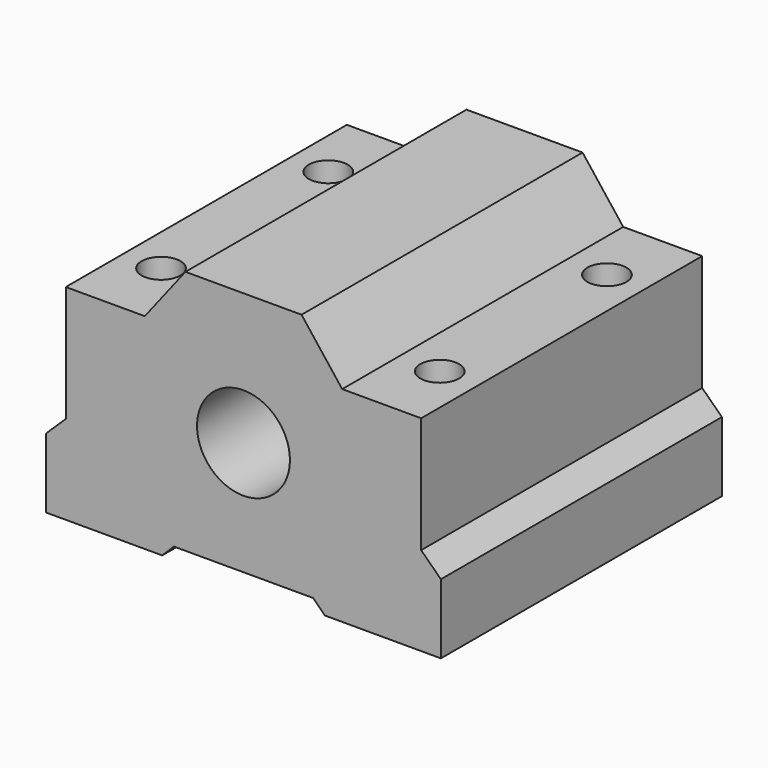
from build123d import *

# Parameters (mm, degrees)
F0_R     = 4
F1_DEPTH = 15.125
F2_R     = 1.675
F3_DEPTH = 22.151


with BuildPart() as f1:
    # F0 (on Front) → F1 (new body, symmetric)
    with BuildSketch(Plane.XZ):
        Polygon((5, 11.35), (-5, 11.35), (-8.5, 6.85), (-15.3, 6.85), (-15.3, -3.15), (-17, -4.8), (-17, -10.8), (-7, -10.8), (-6, -9.8), (6, -9.8), (7, -10.8), (17, -10.8), (17, -4.8), (15.3, -3.15), (15.3, 6.85), (8.5, 6.85), align=None)
        Circle(F0_R, mode=Mode.SUBTRACT)
    extrude(amount=F1_DEPTH, both=True)

    # F2 (on face) → F3 (cut, through all)
    with BuildSketch(Plane(origin=(0, 0, -10.8), x_dir=(1, 0, 0), z_dir=(0, 0, -1))):
        with Locations((-12, 9)):
            Circle(F2_R)
        with Locations((12, 9)):
            Circle(F2_R)
        with Locations((-12, -9)):
            Circle(F2_R)
        with Locations((12, -9)):
            Circle(F2_R)
    extrude(amount=-F3_DEPTH, mode=Mode.SUBTRACT)


solid = f1.part
